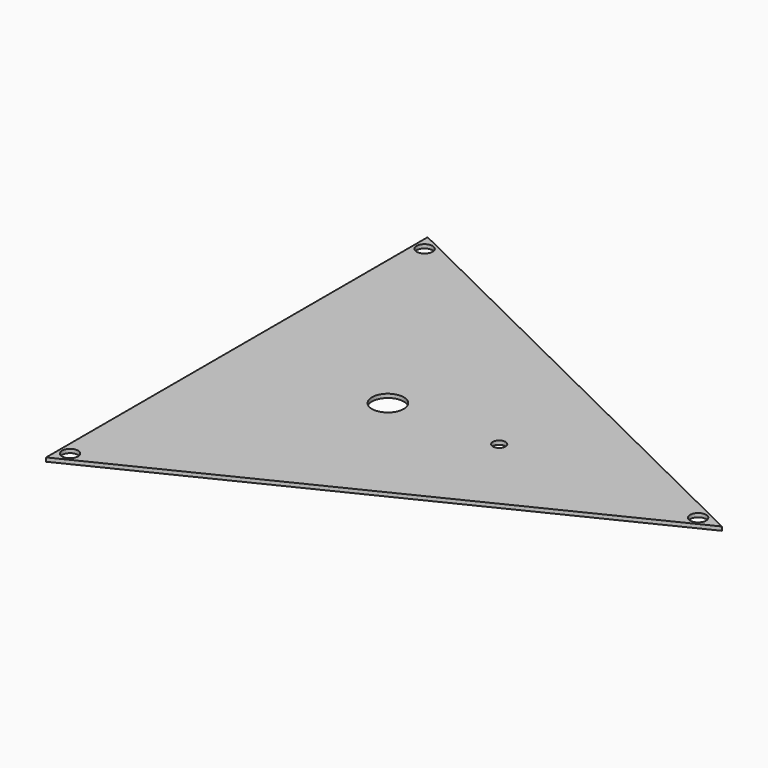
from build123d import *

# Parameters (mm, degrees)
F0_R     = 6.35
F0_R_2   = 12.7
F0_R_3   = 5.08
F1_DEPTH = 3.03784


with BuildPart() as f1:
    # F0 (on Top) → F1 (new body)
    with BuildSketch(Plane.XY):
        Polygon((-97.120928, -190.5), (290.385188, 0), (-97.120928, 190.5), align=None)
        with Locations((-88.738928, -177.039261)):
            Circle(F0_R, mode=Mode.SUBTRACT)
        with Locations((23.529072, 0)):
            Circle(F0_R_2, mode=Mode.SUBTRACT)
        with Locations((-88.738928, 177.039261)):
            Circle(F0_R, mode=Mode.SUBTRACT)
        with Locations((112.429072, 0)):
            Circle(F0_R_3, mode=Mode.SUBTRACT)
        with Locations((271.385988, 0)):
            Circle(F0_R, mode=Mode.SUBTRACT)
    extrude(amount=F1_DEPTH)


solid = f1.part
